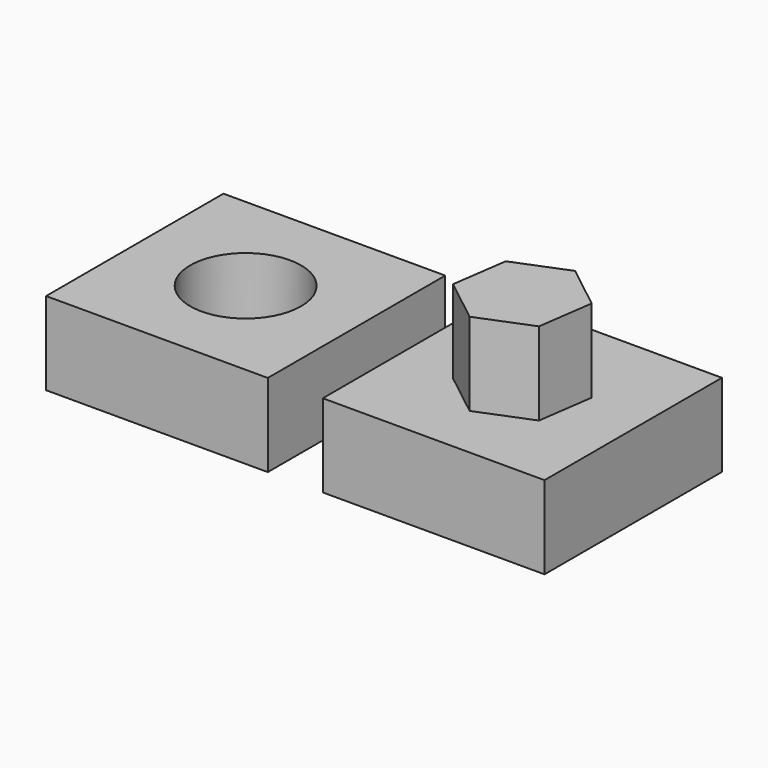
from build123d import *

# Parameters (mm, degrees)
F0_W     = 12.7
F0_H     = 12.7
F0_R     = 3.175
F1_DEPTH = 4.7498
F3_DEPTH = 4.7498


with BuildPart() as f1:
    # F0 (on Top) → F1 (new body)
    with BuildSketch(Plane.XY):
        with Locations((-7.9248, -3.935967)):
            Rectangle(F0_W, F0_H)
        with Locations((-7.9248, -3.935967)):
            Circle(F0_R, mode=Mode.SUBTRACT)
        with Locations((7.9248, -3.935967)):
            Rectangle(F0_W, F0_H)
    extrude(amount=F1_DEPTH)

    # F2 (on face) → F3 (join)
    with BuildSketch(Plane.XY.offset(4.7498)):
        Polygon((10.474563, -5.932613), (10.928827, -2.726131), (8.379064, -0.729485), (5.375037, -1.939322), (4.920773, -5.145804), (7.470536, -7.142449), align=None)
    extrude(amount=F3_DEPTH)


solid = f1.part
